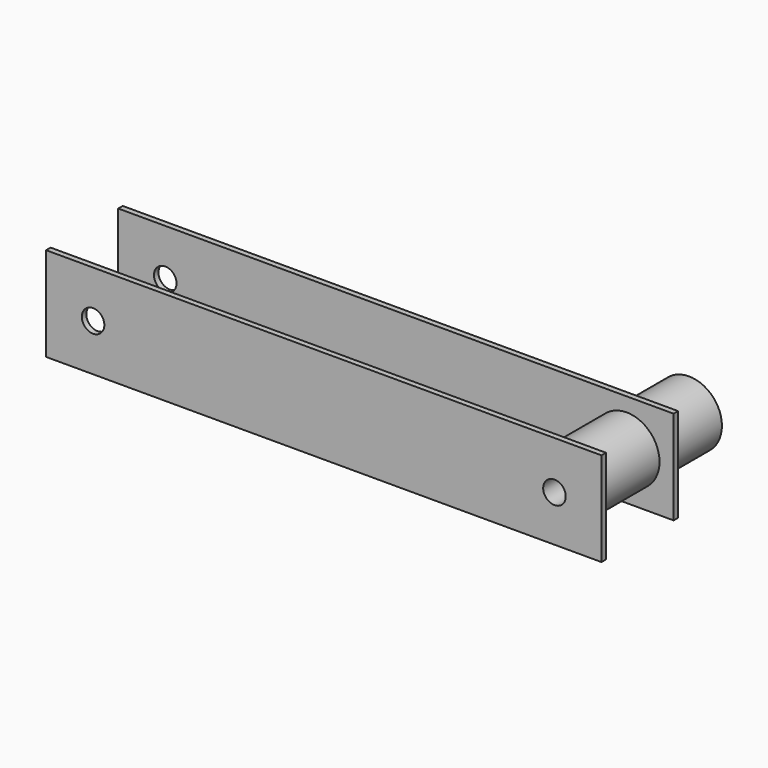
from build123d import *

# Parameters (mm, degrees)
F0_R     = 17.5
F1_DEPTH = 41.5
F2_W     = 295.515
F2_H     = 50
F2_R     = 6
F3_DEPTH = 3
F4_R     = 17.5
F5_DEPTH = 45
F6_W     = 295.515
F6_H     = 50
F6_R     = 6
F7_DEPTH = 3
F8_R     = 6
F9_DEPTH = 89.501


with BuildPart() as f1:
    # F0 (on Front) → F1 (new body)
    with BuildSketch(Plane.XZ):
        Circle(F0_R)
    extrude(amount=F1_DEPTH)

    # F2 (on face) → F3 (join)
    with BuildSketch(Plane.XZ.offset(41.5)):
        with Locations((-122.7575, 0)):
            Rectangle(F2_W, F2_H)
        with Locations((-245.515, 0)):
            Circle(F2_R, mode=Mode.SUBTRACT)
    extrude(amount=-F3_DEPTH)

    # F4 (on face) → F5 (join)
    with BuildSketch(Plane.XZ.offset(41.5)):
        Circle(F4_R)
    extrude(amount=F5_DEPTH)

    # F6 (on face) → F7 (join)
    with BuildSketch(Plane.XZ.offset(86.5)):
        with Locations((-122.7575, 0)):
            Rectangle(F6_W, F6_H)
        with Locations((-245.515, 0)):
            Circle(F6_R, mode=Mode.SUBTRACT)
    extrude(amount=F7_DEPTH)

    # F8 (on Front) → F9 (cut, through all)
    with BuildSketch(Plane.XZ):
        with Locations((0, -0.451715)):
            Circle(F8_R)
    extrude(amount=F9_DEPTH, mode=Mode.SUBTRACT)


solid = f1.part
